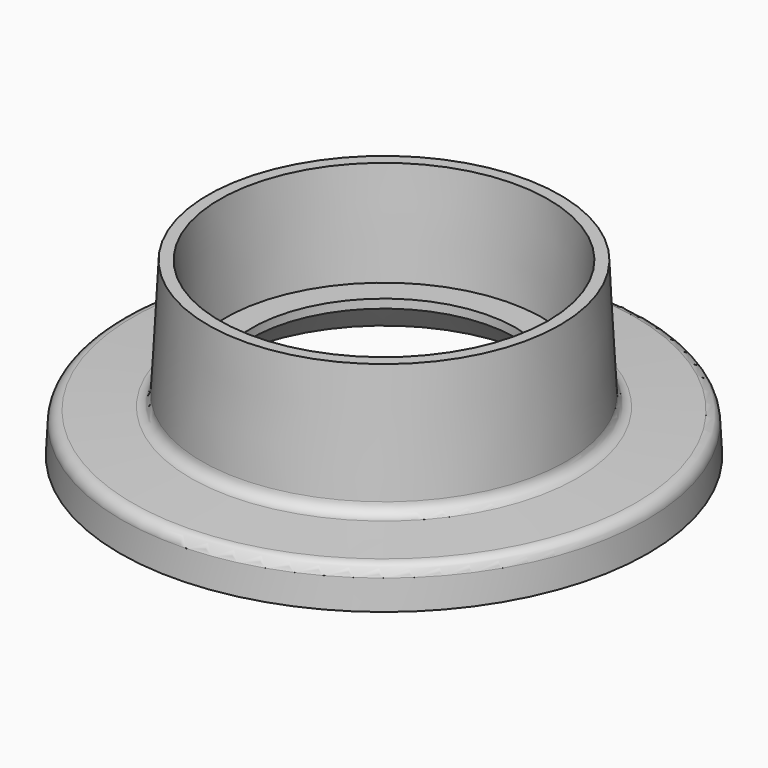
from build123d import *


with BuildPart() as f1:
    # F0 (on Front) → F1 (revolve)
    with BuildSketch(Plane.XZ):
        with BuildLine():
            Line((54.165728, 0), (45, 0))
            Line((45, 0), (45, -3))
            Line((45, -3), (55.657942, -13.657942))
            Line((55.657942, -13.657942), (83.572924, -13.657942))
            ThreePointArc((83.572924, -13.657942), (84.949633, -14.207193), (85.570183, -15.55327))
            Line((85.570183, -15.55327), (86, -23.754671))
            Line((86, -23.754671), (90, -23.754671))
            Line((90, -23.754671), (89.480465, -13.841344))
            ThreePointArc((89.480465, -13.841344), (88.314374, -11.222261), (85.69529, -10.05617))
            Line((85.69529, -10.05617), (65.893709, -9.018413))
            ThreePointArc((65.893709, -9.018413), (63.274626, -7.852322), (62.108535, -5.233239))
            Line((62.108535, -5.233239), (60, 35))
            Line((60, 35), (56, 35))
            Line((56, 35), (54.165728, 0))
        make_face()
    revolve(axis=Axis((0, 0, -2), (0, 0, 1)))


solid = f1.part
